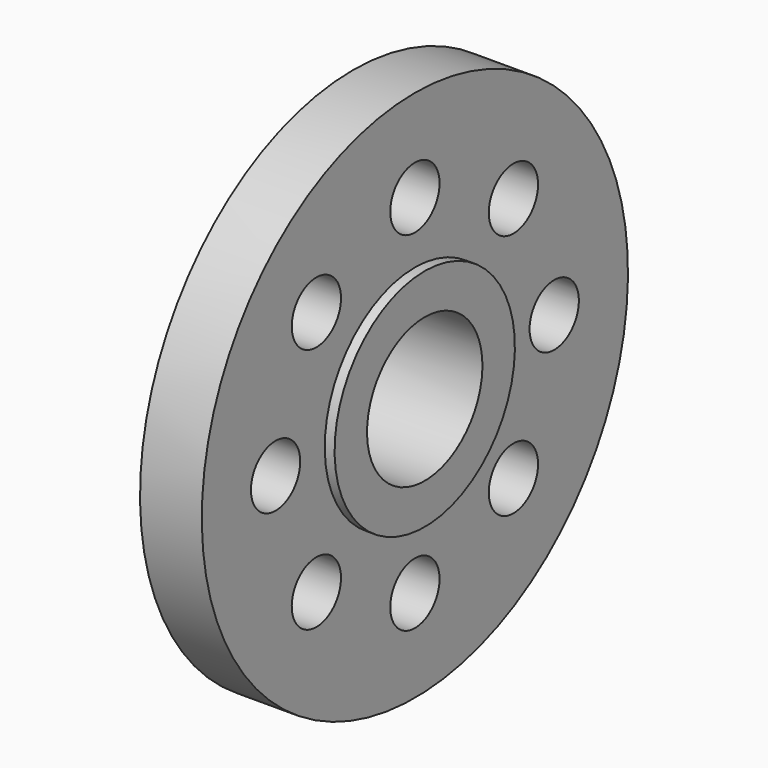
from build123d import *

# Parameters (mm, degrees)
F2_R     = 4.77266
F3_DEPTH = 12.7
F4_COUNT = 8


with BuildPart() as f1:
    # F0 (on Front) → F1 (revolve)
    with BuildSketch(Plane.XZ):
        Polygon((-7.9375, 12.7), (-7.9375, 11.176), (7.9375, 11.176), (7.9375, 17.4625), (6.4135, 17.4625), (6.4135, 41.275), (-3.1623, 41.275), (-3.1623, 12.7), align=None)
    revolve(axis=Axis((0, 0, 0), (1, 0, 0)))

    # F2 (on Right) → F3 (cut, symmetric)
    with BuildSketch(Plane.YZ):
        with Locations((-26.9875, 0)):
            Circle(F2_R)
    f3 = extrude(amount=F3_DEPTH, both=True, mode=Mode.SUBTRACT)

    # F4: F3 ×8 about axis
    f4_axis = Axis((0, 0, 0), (1, 0, 0))
    for i in range(1, F4_COUNT):
        add(f3.rotate(f4_axis, i * 360 / F4_COUNT), mode=Mode.SUBTRACT)


solid = f1.part
